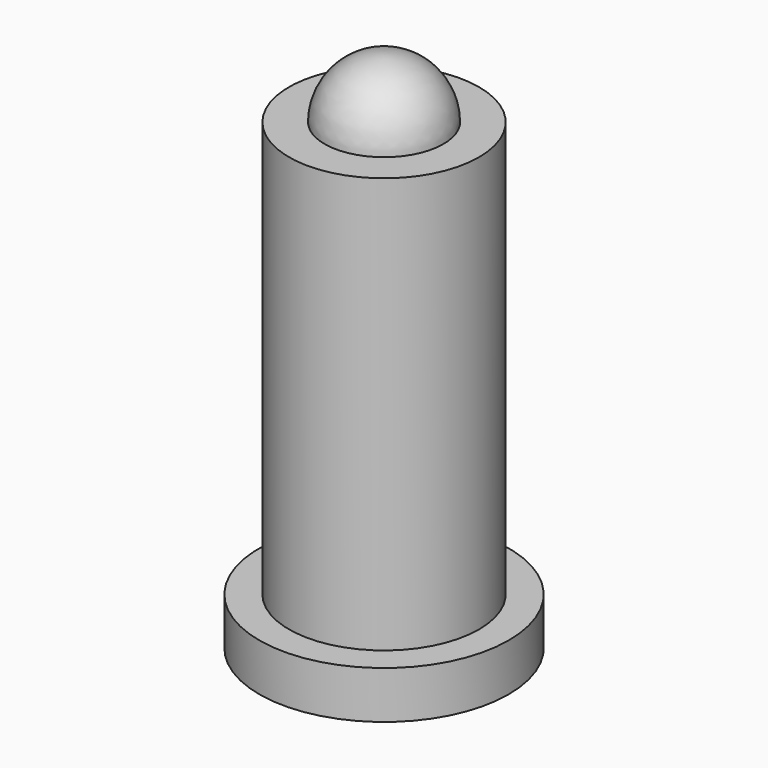
from build123d import *

# Parameters (mm, degrees)
F0_R     = 10.5
F1_DEPTH = 4
F2_R     = 8
F3_DEPTH = 39


with BuildPart() as f1:
    # F0 (on Top) → F1 (new body)
    with BuildSketch(Plane.XY):
        Circle(F0_R)
    extrude(amount=F1_DEPTH)

    # F2 (on Top) → F3 (join)
    with BuildSketch(Plane.XY):
        Circle(F2_R)
    extrude(amount=F3_DEPTH)

    # F4 (on Right) → F5 (revolve)
    with BuildSketch(Plane.YZ):
        with BuildLine():
            ThreePointArc((5, 39), (3.535534, 42.535534), (0, 44))
            Line((0, 44), (0, 39))
            Line((0, 39), (5, 39))
        make_face()
    revolve(axis=Axis((0, 0, 41.5), (0, 0, -1)))


solid = f1.part
